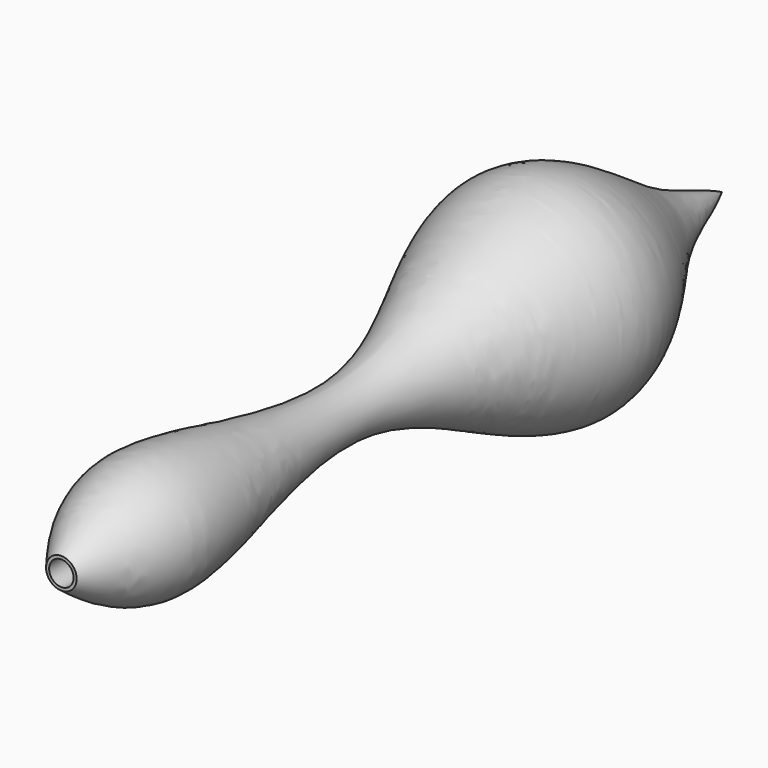
from build123d import *

# Parameters (mm, degrees)
F2_R     = 2
F3_DEPTH = 125


with BuildPart() as f1:
    # F0 (on Right) → F1 (revolve)
    with BuildSketch(Plane.YZ):
        with BuildLine():
            Line((0, 2.5), (0, 0))
            Line((0, 0), (135, 0))
            add(Edge.make_bspline(
                [(0, 2.5), (5.1591235686, 6.4217081777), (17.6805423336, 15.274409738), (61.9936761303, -4.8367197446), (97.0948771331, 26.5883167689), (120.6263751387, 4.1698736003), (130.5461972952, 2.3049730808), (135, 0)],
                knots=[0, 0, 0, 0, 0.1671640696, 0.4184019917, 0.6579435045, 0.8521414874, 1, 1, 1, 1], degree=3))
        make_face()
    revolve(axis=Axis((0, 67.5, 0), (0, 1, 0)))

    # F2 (on Front) → F3 (cut)
    with BuildSketch(Plane.XZ):
        Circle(F2_R)
    extrude(amount=-F3_DEPTH, mode=Mode.SUBTRACT)


solid = f1.part
